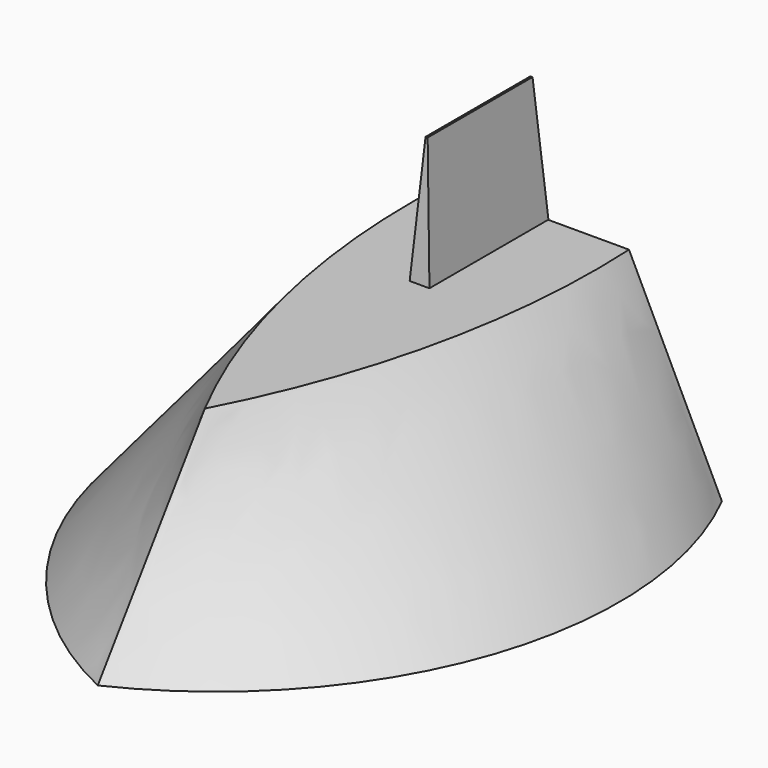
from build123d import *

# Parameters (mm, degrees)
F4_T     = -2.54
F6_DEPTH = 25.4
F6_TAPER = 4


with BuildPart() as f3:
    # F0 (on Top) → F3 section 0
    with BuildSketch(Plane.XY):
        with BuildLine():
            Line((37.4514907598, 59.8914325237), (0, 59.8914325237))
            Line((0, 59.8914325237), (-37.4514907598, 59.8914325237))
            ThreePointArc((-37.4514907598, 59.8914325237), (-41.9616667547, -3.1000974537), (0, -50.2964220941))
            ThreePointArc((0, -50.2964220941), (41.9616667547, -3.1000974537), (37.4514907598, 59.8914325237))
        make_face()
    # F2 (on offset) → F3 section 1
    with BuildSketch(Plane.XY.offset(38.1)):
        with BuildLine():
            Line((0, 60.5104640126), (-18.2614699006, 60.5104640126))
            ThreePointArc((-18.2614699006, 60.5104640126), (-14.7486334866, 17.3479007496), (0, -23.3684927225))
            ThreePointArc((0, -23.3684927225), (14.7486334866, 17.3479007496), (18.2614699006, 60.5104640126))
            Line((18.2614699006, 60.5104640126), (0, 60.5104640126))
        make_face()
    loft()

    # F4
    f4_openings = [f3.faces().sort_by_distance(p)[0] for p in [
        (0, 12.627016, 0),
    ]]
    offset(amount=F4_T, openings=f4_openings, kind=Kind.INTERSECTION)

    # F5 (on offset) → F6 (join)
    with BuildSketch(Plane.XY.offset(38.1)):
        Polygon((1.9884528592, 60.578674078), (0, 60.578674078), (-1.9884528592, 60.578674078), (-1.9884528592, 30.6487604976), (0, 30.6487604976), (1.9884528592, 30.6487604976), align=None)
    extrude(amount=F6_DEPTH, taper=F6_TAPER)


solid = f3.part
